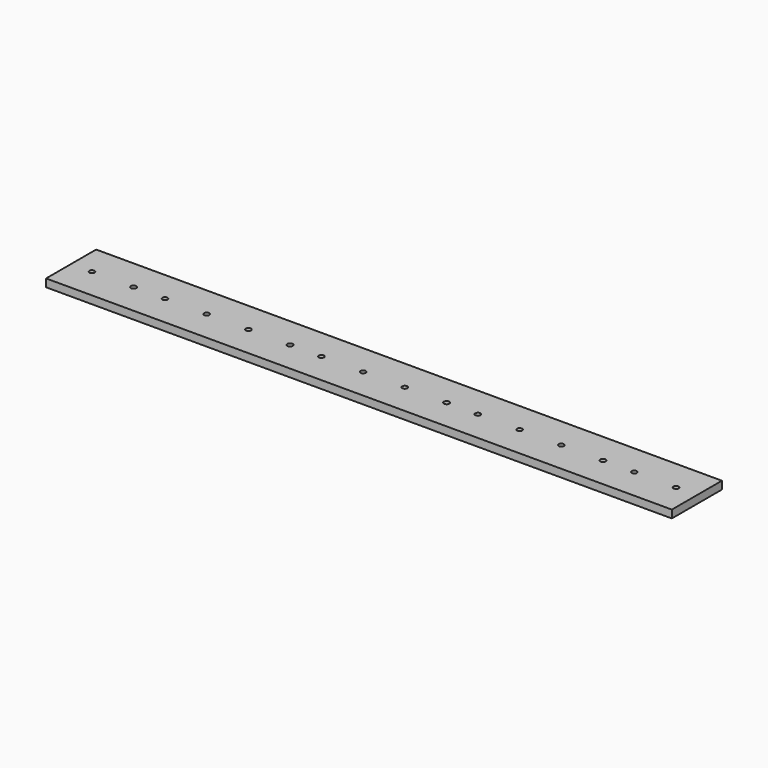
from build123d import *

# Parameters (mm, degrees)
F0_W     = 1524
F0_H     = 152.4
F1_DEPTH = 19.05
F2_R     = 6.35
F2_R_2   = 6.684438
F2_R_3   = 6.350003
F3_DEPTH = 19.051


with BuildPart() as f1:
    # F0 (on Top) → F1 (new body)
    with BuildSketch(Plane.XY):
        with Locations((762, 76.2)):
            Rectangle(F0_W, F0_H)
    extrude(amount=F1_DEPTH)

    # F2 (on face) → F3 (cut, through all)
    with BuildSketch(Plane.XY.offset(19.05)):
        with Locations((50.8, 76.2)):
            Circle(F2_R)
        with Locations((152.4, 76.2)):
            Circle(F2_R_2)
        with Locations((228.6, 76.2)):
            Circle(F2_R_3)
        with Locations((330.2, 76.2)):
            Circle(F2_R)
        with Locations((431.8, 76.200061)):
            Circle(F2_R)
        with Locations((533.4, 76.200061)):
            Circle(F2_R_2)
        with Locations((609.6, 76.200061)):
            Circle(F2_R_3)
        with Locations((711.2, 76.200061)):
            Circle(F2_R)
        with Locations((812.8, 76.200121)):
            Circle(F2_R)
        with Locations((914.4, 76.200121)):
            Circle(F2_R_2)
        with Locations((990.6, 76.200121)):
            Circle(F2_R_3)
        with Locations((1092.2, 76.200121)):
            Circle(F2_R)
        with Locations((1193.8, 76.200029)):
            Circle(F2_R)
        with Locations((1295.4, 76.200029)):
            Circle(F2_R_2)
        with Locations((1371.6, 76.200029)):
            Circle(F2_R_3)
        with Locations((1473.2, 76.200029)):
            Circle(F2_R)
    extrude(amount=-F3_DEPTH, mode=Mode.SUBTRACT)


solid = f1.part
